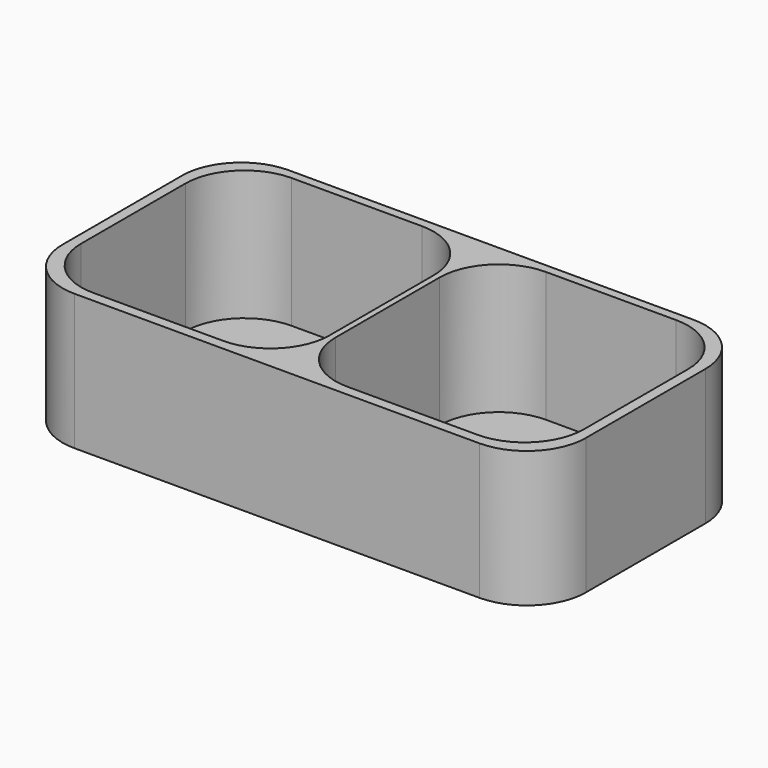
from build123d import *

# Parameters (mm, degrees)
F0_W     = 177
F0_H     = 90.5
F1_DEPTH = 46
F2_W     = 84
F2_H     = 84
F3_DEPTH = 44
F4_R     = 20


with BuildPart() as f1:
    # F0 (on Top) → F1 (new body)
    with BuildSketch(Plane.XY):
        with Locations((-11.741341, -23.917309)):
            Rectangle(F0_W, F0_H)
    extrude(amount=-F1_DEPTH)

    # F2 (on face) → F3 (cut)
    with BuildSketch(Plane.XY):
        with Locations((-54.741341, -23.667309)):
            Rectangle(F2_W, F2_H)
        with Locations((31.258659, -23.667309)):
            Rectangle(F2_W, F2_H)
    extrude(amount=-F3_DEPTH, mode=Mode.SUBTRACT)

    # F4
    f4_edges = [f1.edges().sort_by_distance(p)[0] for p in [
        (-96.741341, 18.332691, -22),
        (-96.741341, -65.667309, -22),
        (-12.741341, -65.667309, -22),
        (-12.741341, 18.332691, -22),
        (-10.741341, 18.332691, -22),
        (-10.741341, -65.667309, -22),
        (73.258659, 18.332691, -22),
        (73.258659, -65.667309, -22),
        (76.758659, 21.332691, -23),
        (-100.241341, 21.332691, -23),
        (-100.241341, -69.167309, -23),
        (76.758659, -69.167309, -23),
    ]]
    fillet(f4_edges, radius=F4_R)


solid = f1.part
